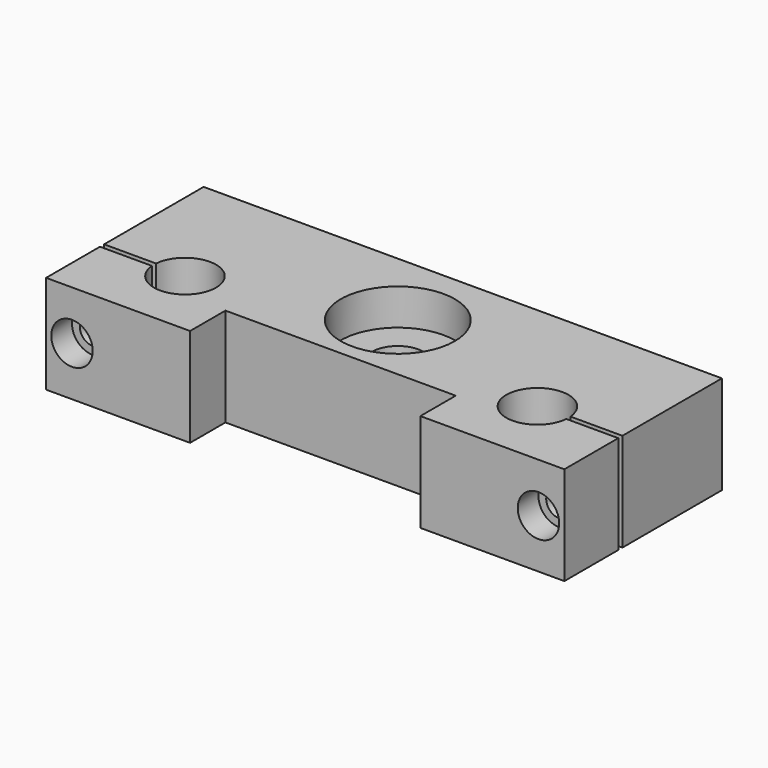
from build123d import *

# Parameters (mm, degrees)
F0_R     = 11
F1_DEPTH = 19
F0_R_2   = 5
F2_DEPTH = 12
F3_R     = 2.5
F4_DEPTH = 38.001
F3_R_2   = 4
F5_DEPTH = 5


with BuildPart() as f1:
    # F0 (on Top) → F1 (new body)
    with BuildSketch(Plane.XY):
        with BuildLine():
            Line((9.388096, -2.975142), (-90.611904, -2.975142))
            Line((-90.611904, -2.975142), (-90.611904, -26.975142))
            Line((-90.611904, -26.975142), (-80.591034, -26.975142))
            ThreePointArc((-80.591034, -26.975142), (-74.361686, -21.480362), (-68.611904, -27.475142))
            ThreePointArc((-68.611904, -27.475142), (-74.361686, -33.469923), (-80.591034, -27.975142))
            Line((-80.591034, -27.975142), (-90.611904, -27.975142))
            Line((-90.611904, -27.975142), (-90.611904, -40.975142))
            Line((-90.611904, -40.975142), (-62.83059, -40.975142))
            Line((-62.83059, -40.975142), (-62.83059, -32.448158))
            Line((-62.83059, -32.448158), (-18.393222, -32.448158))
            Line((-18.393222, -32.448158), (-18.393222, -40.975142))
            Line((-18.393222, -40.975142), (9.388096, -40.975142))
            Line((9.388096, -40.975142), (9.388096, -27.975142))
            Line((9.388096, -27.975142), (-0.632774, -27.975142))
            ThreePointArc((-0.632774, -27.975142), (-12.611904, -27.475142), (-0.632774, -26.975142))
            Line((-0.632774, -26.975142), (9.388096, -26.975142))
            Line((9.388096, -26.975142), (9.388096, -2.975142))
        make_face()
        with Locations((-40.611904, -18.648577)):
            Circle(F0_R, mode=Mode.SUBTRACT)
    extrude(amount=F1_DEPTH)

    # F0 (on Top) → F2 (join)
    with BuildSketch(Plane.XY):
        with Locations((-40.611904, -18.648577)):
            Circle(F0_R)
        with Locations((-40.611904, -18.648577)):
            Circle(F0_R_2, mode=Mode.SUBTRACT)
    extrude(amount=F2_DEPTH)

    # F3 (on face) → F4 (cut, through all)
    with BuildSketch(Plane.XZ.offset(40.975142)):
        with Locations((-85.611904, 9.5)):
            Circle(F3_R)
        with Locations((4.388096, 9.5)):
            Circle(F3_R)
    extrude(amount=-F4_DEPTH, mode=Mode.SUBTRACT)

    # F3 (on face) → F5 (cut)
    with BuildSketch(Plane.XZ.offset(40.975142)):
        with Locations((-85.611904, 9.5)):
            Circle(F3_R_2)
        with Locations((-85.611904, 9.5)):
            Circle(F3_R, mode=Mode.SUBTRACT)
        with Locations((4.388096, 9.5)):
            Circle(F3_R_2)
        with Locations((4.388096, 9.5)):
            Circle(F3_R, mode=Mode.SUBTRACT)
    extrude(amount=-F5_DEPTH, mode=Mode.SUBTRACT)


solid = f1.part
